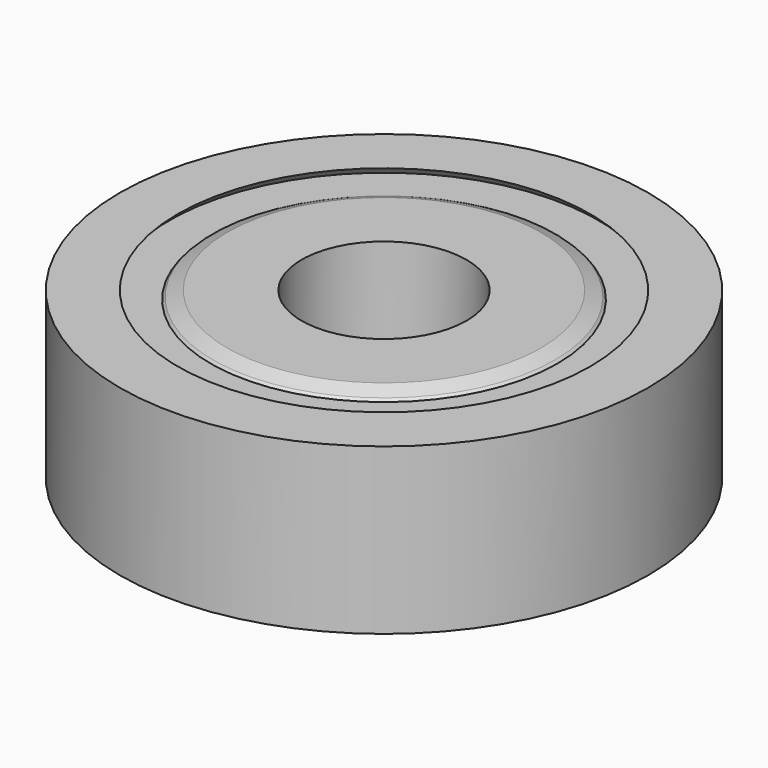
from build123d import *

# Parameters (mm, degrees)
CHAMFER_SIZE = 0.25


with BuildPart() as part:
    # Sketch → Revolution (revolve)
    with BuildSketch(Plane.XZ):
        Polygon((2.5, -2.5), (5, -2.5), (5.25, -2.25), (6, -2.25), (6.25, -2.5), (8, -2.5), (8, 2.5), (6.25, 2.5), (6.5, 2.25), (5.25, 2.25), (5, 2.5), (2.5, 2.5), align=None)
    revolve(axis=Axis((0, 0, 0), (0, 0, 1)))

    # Chamfer
    chamfer_edges = [part.edges().sort_by_distance(p)[0] for p in [
        (-5, 0, 2.5),
        (-2.5, 0, -2.5),
    ]]
    chamfer(chamfer_edges, length=CHAMFER_SIZE)


solid = part.part
